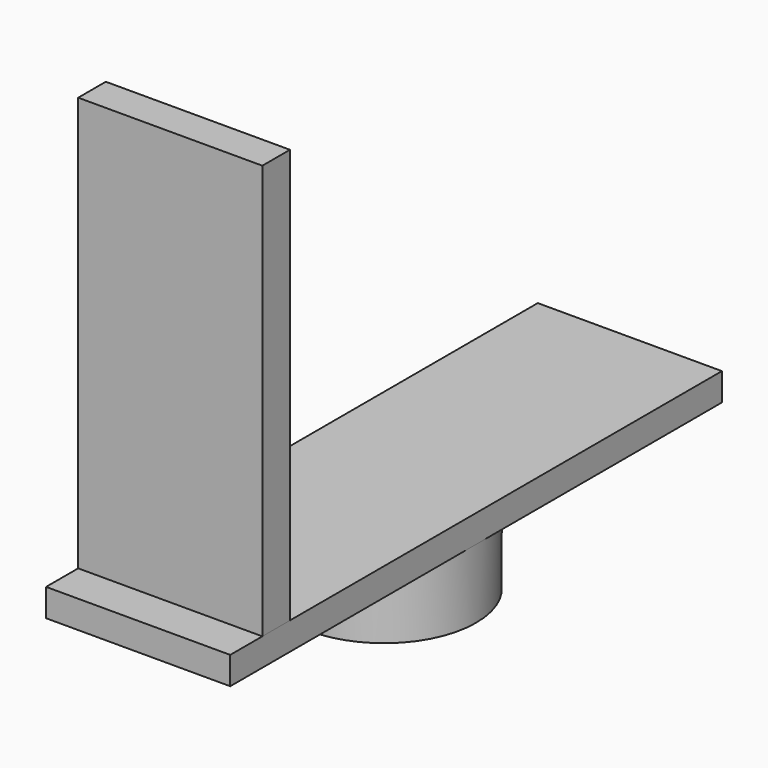
from build123d import *

# Parameters (mm, degrees)
F0_R     = 40
F1_DEPTH = 30
F3_DEPTH = 12
F4_W     = 80
F4_H     = 15
F5_DEPTH = 180


with BuildPart() as f1:
    # F0 (on Top) → F1 (new body)
    with BuildSketch(Plane.XY):
        Circle(F0_R)
    extrude(amount=F1_DEPTH)

    # F2 (on face) → F3 (join)
    with BuildSketch(Plane.XY.offset(30)):
        with BuildLine():
            Line((40, 0), (40, 133.5))
            Line((40, 133.5), (-40, 133.5))
            Line((-40, 133.5), (-40, 0))
            ThreePointArc((-40, 0), (0, 40), (40, 0))
        make_face()
        with BuildLine():
            Line((40, -133.5), (40, 0))
            ThreePointArc((40, 0), (0, -40), (-40, 0))
            Line((-40, 0), (-40, -133.5))
            Line((-40, -133.5), (40, -133.5))
        make_face()
        with BuildLine():
            ThreePointArc((-40, 0), (0, -40), (40, 0))
            ThreePointArc((40, 0), (0, 40), (-40, 0))
        make_face()
    extrude(amount=F3_DEPTH)


with BuildPart() as f5:
    # F4 (on face) → F5 (new body)
    with BuildSketch(Plane.XY.offset(42)):
        with Locations((0, -108.563692)):
            Rectangle(F4_W, F4_H)
    extrude(amount=F5_DEPTH)


solid = Compound([f1.part, f5.part])
